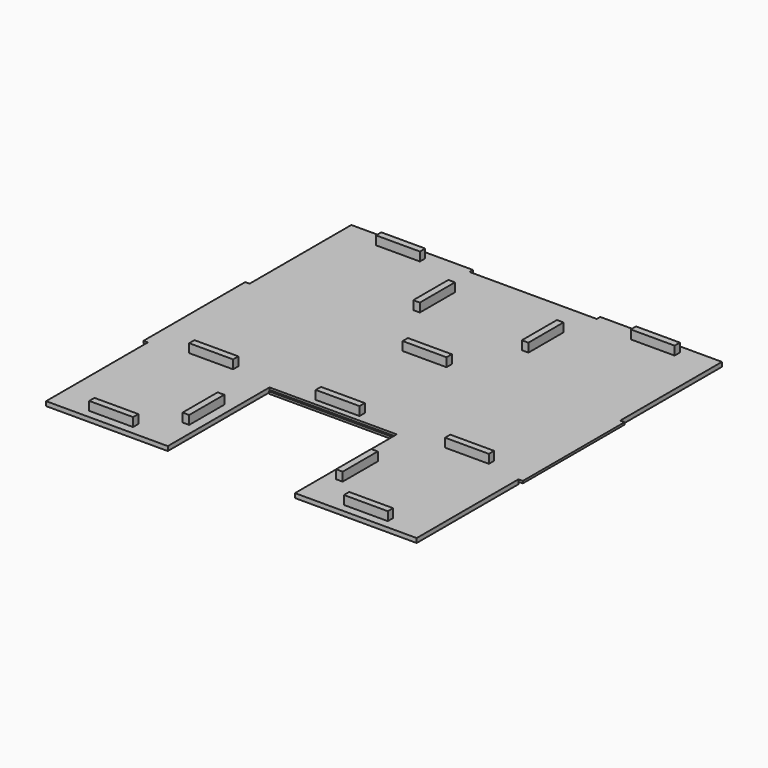
from build123d import *

# Parameters (mm, degrees)
BOX034_W     = 20
BOX034_H     = 3
BOX034_DEPTH = 6
BOX001_W     = 110
BOX001_H     = 58
BOX001_DEPTH = 2
BOX002_W     = 20
BOX002_H     = 3
BOX002_DEPTH = 6
BOX003_W     = 20
BOX003_H     = 3
BOX003_DEPTH = 6
BOX004_W     = 20
BOX004_H     = 3
BOX004_DEPTH = 6
BOX006_W     = 20
BOX006_H     = 3
BOX006_DEPTH = 6
BOX007_W     = 20
BOX007_H     = 3
BOX007_DEPTH = 6
BOX008_W     = 20
BOX008_H     = 3
BOX008_DEPTH = 6
BOX009_W     = 4
BOX009_H     = 58
BOX009_DEPTH = 1
BOX010_W     = 4
BOX010_H     = 58
BOX010_DEPTH = 1
BOX012_W     = 58
BOX012_H     = 55.5
BOX012_DEPTH = 2
BOX011_W     = 4
BOX011_H     = 58
BOX011_DEPTH = 1
BOX017_W     = 20
BOX017_H     = 3
BOX017_DEPTH = 6
BOX018_W     = 20
BOX018_H     = 3
BOX018_DEPTH = 6
BOX026_W     = 20
BOX026_H     = 3
BOX026_DEPTH = 6
BOX027_W     = 58
BOX027_H     = 3
BOX027_DEPTH = 1
BOX029_W     = 20
BOX029_H     = 3
BOX029_DEPTH = 6
BOX030_W     = 58
BOX030_H     = 55.5
BOX030_DEPTH = 2
BOX031_W     = 58
BOX031_H     = 55.5
BOX031_DEPTH = 2
BOX032_W     = 58
BOX032_H     = 55.5
BOX032_DEPTH = 2
BOX033_W     = 20
BOX033_H     = 3
BOX033_DEPTH = 6
BOX035_W     = 20
BOX035_H     = 3
BOX035_DEPTH = 6
BOX_W        = 165
BOX_H        = 58
BOX_DEPTH    = 2


with BuildPart() as cube034:
    # Box034 → Box034 (new body)
    with BuildSketch(Plane(origin=(53.25, -40.5, 0), x_dir=(0, 1, 0), z_dir=(0, 0, 1))):
        with Locations((10, 1.5)):
            Rectangle(BOX034_W, BOX034_H)
    extrude(amount=BOX034_DEPTH)


with BuildPart() as cube001:
    # Box001 → Box001 (new body)
    with BuildSketch(Plane(origin=(115.5, 0, 0), x_dir=(0, 1, 0), z_dir=(0, 0, 1))):
        with Locations((55, 29)):
            Rectangle(BOX001_W, BOX001_H)
    extrude(amount=BOX001_DEPTH)


with BuildPart() as cube002:
    # Box002 → Box002 (new body)
    with BuildSketch(Plane(origin=(18.67, -54.25, 0), x_dir=(1, 0, 0), z_dir=(0, 0, 1))):
        with Locations((10, 1.5)):
            Rectangle(BOX002_W, BOX002_H)
    extrude(amount=BOX002_DEPTH)


with BuildPart() as cube003:
    # Box003 → Box003 (new body)
    with BuildSketch(Plane(origin=(76.34, 2.75, 0), x_dir=(1, 0, 0), z_dir=(0, 0, 1))):
        with Locations((10, 1.5)):
            Rectangle(BOX003_W, BOX003_H)
    extrude(amount=BOX003_DEPTH)


with BuildPart() as cube004:
    # Box004 → Box004 (new body)
    with BuildSketch(Plane(origin=(134.83, -54.25, 0), x_dir=(1, 0, 0), z_dir=(0, 0, 1))):
        with Locations((10, 1.5)):
            Rectangle(BOX004_W, BOX004_H)
    extrude(amount=BOX004_DEPTH)


with BuildPart() as cube006:
    # Box006 → Box006 (new body)
    with BuildSketch(Plane(origin=(134.83, 109.25, 0), x_dir=(1, 0, 0), z_dir=(0, 0, 1))):
        with Locations((10, 1.5)):
            Rectangle(BOX006_W, BOX006_H)
    extrude(amount=BOX006_DEPTH)


with BuildPart() as cube007:
    # Box007 → Box007 (new body)
    with BuildSketch(Plane(origin=(63.25, 78.5, 0), x_dir=(0, 1, 0), z_dir=(0, 0, 1))):
        with Locations((10, 1.5)):
            Rectangle(BOX007_W, BOX007_H)
    extrude(amount=BOX007_DEPTH)


with BuildPart() as cube008:
    # Box008 → Box008 (new body)
    with BuildSketch(Plane(origin=(112.75, 78.5, 0), x_dir=(0, 1, 0), z_dir=(0, 0, 1))):
        with Locations((10, 1.5)):
            Rectangle(BOX008_W, BOX008_H)
    extrude(amount=BOX008_DEPTH)


with BuildPart() as cube009:
    # Box009 → Box009 (new body)
    with BuildSketch(Plane.XY.offset(1)):
        with Locations((2, 29)):
            Rectangle(BOX009_W, BOX009_H)
    extrude(amount=BOX009_DEPTH)


with BuildPart() as cube010:
    # Box010 → Box010 (new body)
    with BuildSketch(Plane(origin=(169, 0, 1), x_dir=(1, 0, 0), z_dir=(0, 0, 1))):
        with Locations((2, 29)):
            Rectangle(BOX010_W, BOX010_H)
    extrude(amount=BOX010_DEPTH)


with BuildPart() as cube012:
    # Box012 → Box012 (new body)
    with BuildSketch(Plane(origin=(57.5, 58, 0), x_dir=(0, 1, 0), z_dir=(0, 0, 1))):
        with Locations((29, 27.75)):
            Rectangle(BOX012_W, BOX012_H)
    extrude(amount=BOX012_DEPTH)


with BuildPart() as cube011:
    # Box011 → Box011 (new body)
    with BuildSketch(Plane(origin=(115.5, 110, 1), x_dir=(0, 1, 0), z_dir=(0, 0, 1))):
        with Locations((2, 29)):
            Rectangle(BOX011_W, BOX011_H)
    extrude(amount=BOX011_DEPTH)


with BuildPart() as cube017:
    # Box017 → Box017 (new body)
    with BuildSketch(Plane(origin=(18.67, 2.75, 0), x_dir=(1, 0, 0), z_dir=(0, 0, 1))):
        with Locations((10, 1.5)):
            Rectangle(BOX017_W, BOX017_H)
    extrude(amount=BOX017_DEPTH)


with BuildPart() as cube018:
    # Box018 → Box018 (new body)
    with BuildSketch(Plane(origin=(135.333, 2.75, 0), x_dir=(1, 0, 0), z_dir=(0, 0, 1))):
        with Locations((10, 1.5)):
            Rectangle(BOX018_W, BOX018_H)
    extrude(amount=BOX018_DEPTH)


with BuildPart() as cube026:
    # Box026 → Box026 (new body)
    with BuildSketch(Plane(origin=(77, 51.5, 0), x_dir=(1, 0, 0), z_dir=(0, 0, 1))):
        with Locations((10, 1.5)):
            Rectangle(BOX026_W, BOX026_H)
    extrude(amount=BOX026_DEPTH)


with BuildPart() as cube027:
    # Box027 → Box027 (new body)
    with BuildSketch(Plane(origin=(58, -1, 0), x_dir=(1, 0, 0), z_dir=(0, 0, 1))):
        with Locations((29, 1.5)):
            Rectangle(BOX027_W, BOX027_H)
    extrude(amount=BOX027_DEPTH)


with BuildPart() as cube029:
    # Box029 → Box029 (new body)
    with BuildSketch(Plane(origin=(18.67, 109.25, 0), x_dir=(1, 0, 0), z_dir=(0, 0, 1))):
        with Locations((10, 1.5)):
            Rectangle(BOX029_W, BOX029_H)
    extrude(amount=BOX029_DEPTH)


with BuildPart() as cube030:
    # Box030 → Box030 (new body)
    with BuildSketch(Plane(origin=(171, 58, 0), x_dir=(0, 1, 0), z_dir=(0, 0, 1))):
        with Locations((29, 27.75)):
            Rectangle(BOX030_W, BOX030_H)
    extrude(amount=BOX030_DEPTH)


with BuildPart() as cube031:
    # Box031 → Box031 (new body)
    with BuildSketch(Plane(origin=(57.5, -58, 0), x_dir=(0, 1, 0), z_dir=(0, 0, 1))):
        with Locations((29, 27.75)):
            Rectangle(BOX031_W, BOX031_H)
    extrude(amount=BOX031_DEPTH)


with BuildPart() as cube032:
    # Box032 → Box032 (new body)
    with BuildSketch(Plane(origin=(171, -58, 0), x_dir=(0, 1, 0), z_dir=(0, 0, 1))):
        with Locations((29, 27.75)):
            Rectangle(BOX032_W, BOX032_H)
    extrude(amount=BOX032_DEPTH)


with BuildPart() as cube033:
    # Box033 → Box033 (new body)
    with BuildSketch(Plane(origin=(53.25, -40.5, 0), x_dir=(0, 1, 0), z_dir=(0, 0, 1))):
        with Locations((10, 1.5)):
            Rectangle(BOX033_W, BOX033_H)
    extrude(amount=BOX033_DEPTH)


with BuildPart() as cube035:
    # Box035 → Box035 (new body)
    with BuildSketch(Plane(origin=(123.25, -40.5, 0), x_dir=(0, 1, 0), z_dir=(0, 0, 1))):
        with Locations((10, 1.5)):
            Rectangle(BOX035_W, BOX035_H)
    extrude(amount=BOX035_DEPTH)


with BuildPart() as fusion:
    # Box → Box (new body)
    with BuildSketch(Plane(origin=(4, 0, 0), x_dir=(1, 0, 0), z_dir=(0, 0, 1))):
        with Locations((82.5, 29)):
            Rectangle(BOX_W, BOX_H)
    extrude(amount=BOX_DEPTH)

    # Fusion: union Cube001, Cube002, Cube003, Cube004, Cube006, Cube007, Cube008, Cube009, Cube010, Cube012, Cube011, Cube017, Cube018, Cube026, Cube027, Cube029, Cube030, Cube031, Cube032, Cube033, Cube035
    add(cube001.part)
    add(cube002.part)
    add(cube003.part)
    add(cube004.part)
    add(cube006.part)
    add(cube007.part)
    add(cube008.part)
    add(cube009.part)
    add(cube010.part)
    add(cube012.part)
    add(cube011.part)
    add(cube017.part)
    add(cube018.part)
    add(cube026.part)
    add(cube027.part)
    add(cube029.part)
    add(cube030.part)
    add(cube031.part)
    add(cube032.part)
    add(cube033.part)
    add(cube035.part)


solid = Compound([cube034.part, fusion.part])
